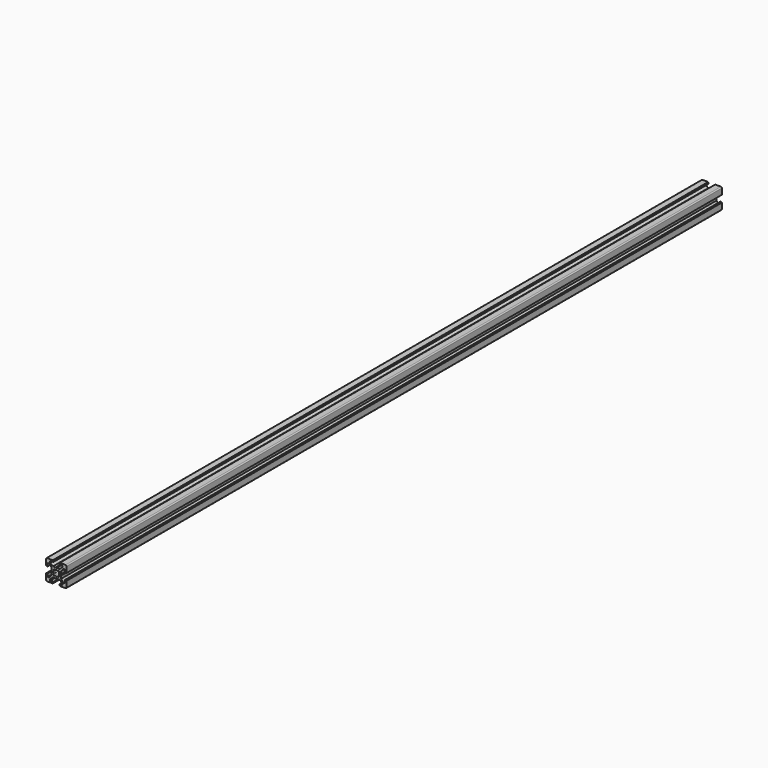
from build123d import *

# Parameters (mm, degrees)
PAD_DEPTH          = 800
POCKET_DEPTH       = 800
POLARPATTERN_COUNT = 4
POCKET001_DEPTH    = 800


with BuildPart() as part:
    # Sketch → Pad (new body)
    with BuildSketch(Plane.XZ):
        with BuildLine():
            Line((-9, 10), (9, 10))
            ThreePointArc((10, 9), (9.707107, 9.707107), (9, 10))
            Line((10, 9), (10, -9))
            ThreePointArc((9, -10), (9.707107, -9.707107), (10, -9))
            Line((9, -10), (-9, -10))
            ThreePointArc((-10, -9), (-9.707107, -9.707107), (-9, -10))
            Line((-10, -9), (-10, 9))
            ThreePointArc((-9, 10), (-9.707107, 9.707107), (-10, 9))
        make_face()
    extrude(amount=PAD_DEPTH)

    # Sketch001 (on Face10 of Pad) → Pocket (cut)
    with BuildSketch(Plane.XZ.offset(800)):
        Polygon((-3.4, 10), (-3.4, 9.6), (-3, 9.6), (-3, 8.5), (-6, 8.5), (-6, 7), (-3.35, 4.7), (-0.65, 4.7), (0, 4.3), (0.65, 4.7), (3.35, 4.7), (6, 7), (6, 8.5), (3, 8.5), (3, 9.6), (3.4, 9.6), (3.4, 10), align=None)
    pocket = extrude(amount=-POCKET_DEPTH, mode=Mode.SUBTRACT)

    # PolarPattern: Pocket ×4 about axis
    polarpattern_axis = Axis((0, -800, 0), (0, -1, 0))
    for i in range(1, POLARPATTERN_COUNT):
        add(pocket.rotate(polarpattern_axis, i * 360 / POLARPATTERN_COUNT), mode=Mode.SUBTRACT)

    # Sketch002 (on Face4 of PolarPattern) → Pocket001 (cut)
    with BuildSketch(Plane.XZ.offset(800)):
        with BuildLine():
            ThreePointArc((1.340499, 2.401159), (0, 2.75), (-1.340499, 2.401159))
            Line((-1.944544, 3.005204), (-1.340499, 2.401159))
            Line((-3.005204, 1.944544), (-1.944544, 3.005204))
            Line((-2.401159, 1.340499), (-3.005204, 1.944544))
            ThreePointArc((-2.401159, 1.340499), (-2.75, 0), (-2.401159, -1.340499))
            Line((-3.005204, -1.944544), (-2.401159, -1.340499))
            Line((-1.944544, -3.005204), (-3.005204, -1.944544))
            Line((-1.340499, -2.401159), (-1.944544, -3.005204))
            ThreePointArc((-1.340499, -2.401159), (0, -2.75), (1.340499, -2.401159))
            Line((1.944544, -3.005204), (1.340499, -2.401159))
            Line((3.005204, -1.944544), (1.944544, -3.005204))
            Line((2.401159, -1.340499), (3.005204, -1.944544))
            ThreePointArc((2.401159, -1.340499), (2.75, 0), (2.401159, 1.340499))
            Line((2.401159, 1.340499), (3.005204, 1.944544))
            Line((3.005204, 1.944544), (1.944544, 3.005204))
            Line((1.944544, 3.005204), (1.340499, 2.401159))
        make_face()
    extrude(amount=-POCKET001_DEPTH, mode=Mode.SUBTRACT)


solid = part.part
